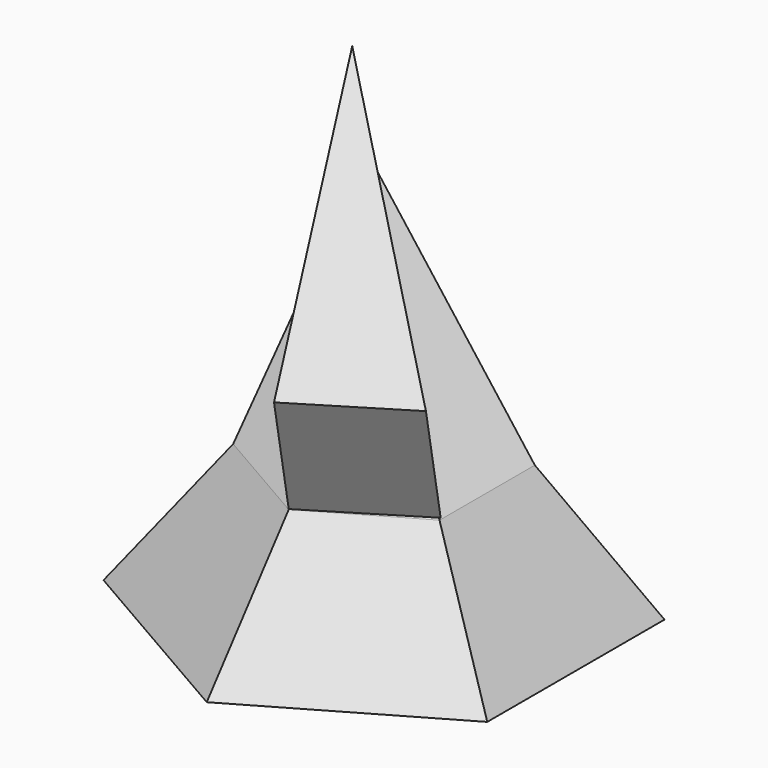
from build123d import *

# Parameters (mm, degrees)
F9_DEPTH = 60


with BuildPart() as f3:
    # F0 (on Top) → F3 section 0
    with BuildSketch(Plane.XY):
        Polygon((75, 43.3012701892), (0, 86.6025403784), (-75, 43.3012701892), (-75, -43.3012701892), (0, -86.6025403784), (75, -43.3012701892), align=None)
    # F2 (on offset) → F3 section 1
    with BuildSketch(Plane.XY.offset(50)):
        Polygon((40.3265245185, 23.2825297862), (0, 46.5650595725), (-40.3265245185, 23.2825297862), (-40.3265245185, -23.2825297862), (0, -46.5650595725), (40.3265245185, -23.2825297862), align=None)
    loft()

    # F3_face (on face) → F6 section 0
    with BuildSketch(Plane.XY.offset(50), mode=Mode.PRIVATE) as f6_s0:
        Polygon((40.3265245185, -23.2825297862), (40.3265245185, 23.2825297862), (0, 46.5650595725), (-40.3265245185, 23.2825297862), (-40.3265245185, -23.2825297862), (0, -46.5650595725), align=None)
    loft([f6_s0.sketch, Vertex(-50.6460405886, 55.1455877721, 115)])

    # F8 (on offset) → F9 (join)
    with BuildSketch(Plane(origin=(15.7716130811, -27.3172351738, 55.0342066068), x_dir=(0.9685974066, 0.1105451644, -0.2227079489), z_dir=(0.2486343981, -0.4306474099, 0.8675965332))):
        Polygon((25.1611340791, 2.2766380571), (-68.6507374048, 100.4471331835), (-16.3836460561, -19.314782694), align=None)
    extrude(amount=F9_DEPTH)


solid = f3.part
